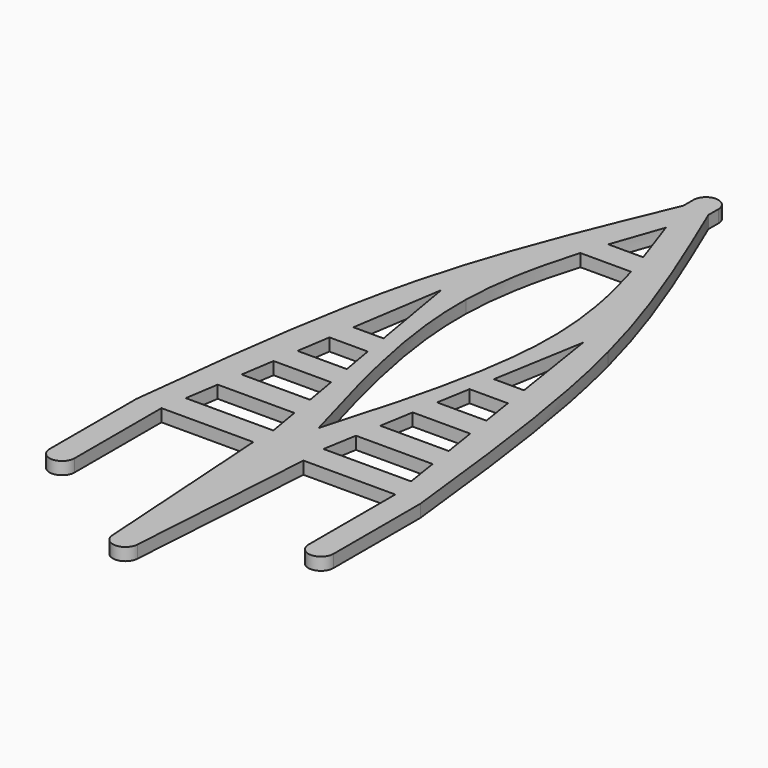
from build123d import *

# Parameters (mm, degrees)
F0_W     = 1.5
F0_H     = 1.5
F0_W_2   = 3
F0_H_2   = 13
F1_DEPTH = 1.5


with BuildPart() as f1:
    # F0 (on Top) → F1 (new body)
    with BuildSketch(Plane.XY):
        with BuildLine():
            ThreePointArc((1.5, 0), (0, 1.5), (-1.5, 0))
            Line((-1.5, 0), (0, 0))
            Line((0, 0), (1.5, 0))
        make_face()
        with Locations((-0.75, -0.75)):
            Rectangle(F0_W, F0_H)
        with Locations((0.75, -0.75)):
            Rectangle(F0_W, F0_H)
        with BuildLine():
            Line((-11.5, -29), (-1.5, -1.5))
            add(Edge.make_bspline(
                [(-11.5, -29), (-8.9604389689, -19.1496475307), (-5.2302194845, -10.3248237653), (-1.5, -1.5)],
                knots=[0.5238897737, 0.5238897737, 0.5238897737, 0.5238897737, 1, 1, 1, 1], degree=3))
        make_face()
        with BuildLine():
            Line((0, -1.5), (-1.5, -1.5))
            Line((-1.5, -1.5), (-11.5, -29))
            Line((-11.5, -29), (-8.5, -29))
            Line((-8.5, -29), (-5.5, -29))
            add(Edge.make_bspline(
                [(-5.5, -29), (-5.3848916098, -24.1330760329), (-4.3881653739, -19.5163140054), (-3.0374413678, -15)],
                knots=[0.5276799434, 0.5276799434, 0.5276799434, 0.5276799434, 0.8103483866, 0.8103483866, 0.8103483866, 0.8103483866], degree=3))
            add(Edge.make_bspline(
                [(-3.0374413678, -15), (-2.7370430221, -13.9955807036), (-2.4191356353, -12.9961296547), (-2.0895230291, -12)],
                knots=[0.8103483866, 0.8103483866, 0.8103483866, 0.8103483866, 0.8732132889, 0.8732132889, 0.8732132889, 0.8732132889], degree=3))
            add(Edge.make_bspline(
                [(-2.0895230291, -12), (-1.4247562559, -9.9909934152), (-0.7123781279, -7.9954967076), (0, -6)],
                knots=[0.8732132889, 0.8732132889, 0.8732132889, 0.8732132889, 1, 1, 1, 1], degree=3))
            Line((0, -6), (0, -1.5))
        make_face()
        with BuildLine():
            Line((-2.152173913, -15), (-1.4347826087, -12))
            Line((-1.4347826087, -12), (-2.0895230291, -12))
            add(Edge.make_bspline(
                [(-3.0374413678, -15), (-2.7370430221, -13.9955807036), (-2.4191356353, -12.9961296547), (-2.0895230291, -12)],
                knots=[0.8103483866, 0.8103483866, 0.8103483866, 0.8103483866, 0.8732132889, 0.8732132889, 0.8732132889, 0.8732132889], degree=3))
            Line((-3.0374413678, -15), (-2.152173913, -15))
        make_face()
        Polygon((0, -15), (0, -12), (-1.4347826087, -12), (-2.152173913, -15), align=None)
        Polygon((1.4347826087, -12), (0, -12), (0, -15), (2.152173913, -15), align=None)
        with BuildLine():
            Line((2.0895230291, -12), (1.4347826087, -12))
            Line((1.4347826087, -12), (2.152173913, -15))
            Line((2.152173913, -15), (3.0374413678, -15))
            add(Edge.make_bspline(
                [(3.0374413678, -15), (2.7370430221, -13.9955807036), (2.4191356353, -12.9961296547), (2.0895230291, -12)],
                knots=[0.8103483866, 0.8103483866, 0.8103483866, 0.8103483866, 0.8732132889, 0.8732132889, 0.8732132889, 0.8732132889], degree=3))
        make_face()
        with BuildLine():
            add(Edge.make_bspline(
                [(11.5, -29), (8.9604389689, -19.1496475307), (5.2302194845, -10.3248237653), (1.5, -1.5)],
                knots=[0.5238897737, 0.5238897737, 0.5238897737, 0.5238897737, 1, 1, 1, 1], degree=3))
            Line((1.5, -1.5), (11.5, -29))
        make_face()
        with BuildLine():
            Line((1.5, -1.5), (0, -1.5))
            Line((0, -1.5), (0, -6))
            add(Edge.make_bspline(
                [(2.0895230291, -12), (1.4247562559, -9.9909934152), (0.7123781279, -7.9954967076), (0, -6)],
                knots=[0.8732132889, 0.8732132889, 0.8732132889, 0.8732132889, 1, 1, 1, 1], degree=3))
            add(Edge.make_bspline(
                [(3.0374413678, -15), (2.7370430221, -13.9955807036), (2.4191356353, -12.9961296547), (2.0895230291, -12)],
                knots=[0.8103483866, 0.8103483866, 0.8103483866, 0.8103483866, 0.8732132889, 0.8732132889, 0.8732132889, 0.8732132889], degree=3))
            add(Edge.make_bspline(
                [(5.5, -29), (5.3848916098, -24.1330760329), (4.3881653739, -19.5163140054), (3.0374413678, -15)],
                knots=[0.5276799434, 0.5276799434, 0.5276799434, 0.5276799434, 0.8103483866, 0.8103483866, 0.8103483866, 0.8103483866], degree=3))
            Line((5.5, -29), (8.5, -29))
            Line((8.5, -29), (11.5, -29))
            Line((11.5, -29), (1.5, -1.5))
        make_face()
        with BuildLine():
            Line((-8.5, -29), (-11.5, -29))
            Line((-11.5, -29), (-17, -64))
            Line((-17, -64), (-14, -64))
            Line((-14, -64), (-3, -64))
            Line((-3, -64), (0, -64))
            Line((0, -64), (0, -58))
            add(Edge.make_bspline(
                [(0, -58), (-2.8574410503, -48.0427394279), (-5.7148821006, -38.0854788558), (-5.5, -29)],
                knots=[0, 0, 0, 0, 0.5276799434, 0.5276799434, 0.5276799434, 0.5276799434], degree=3))
            Line((-5.5, -29), (-8.5, -29))
        make_face()
        Polygon((-10.2159162976, -40), (-8.5, -29), (-6.609375, -40), (-6.09375, -43), (-5.40625, -47), (-4.890625, -50), (-4.203125, -54), (-3.6875, -57), (-3, -61), (-8.5, -61), (-13.491756502, -61), (-12.8677869393, -57), (-12.3998097672, -54), (-11.7758402045, -50), (-11.3078630324, -47), (-10.6838934696, -43), align=None, mode=Mode.SUBTRACT)
        with BuildLine():
            Line((-17, -64), (-11.5, -29))
            add(Edge.make_bspline(
                [(-17, -64), (-15.6472080207, -51.9194371815), (-14.2944160413, -39.838874363), (-11.5, -29)],
                knots=[0, 0, 0, 0, 0.5238897737, 0.5238897737, 0.5238897737, 0.5238897737], degree=3))
        make_face()
        with BuildLine():
            Line((17, -64), (11.5, -29))
            Line((11.5, -29), (8.5, -29))
            Line((8.5, -29), (5.5, -29))
            add(Edge.make_bspline(
                [(0, -58), (2.8574410503, -48.0427394279), (5.7148821006, -38.0854788558), (5.5, -29)],
                knots=[0, 0, 0, 0, 0.5276799434, 0.5276799434, 0.5276799434, 0.5276799434], degree=3))
            Line((0, -58), (0, -64))
            Line((0, -64), (3, -64))
            Line((3, -64), (14, -64))
            Line((14, -64), (17, -64))
        make_face()
        Polygon((6.609375, -40), (8.5, -29), (10.2159162976, -40), (10.6838934696, -43), (11.3078630324, -47), (11.7758402045, -50), (12.3998097672, -54), (12.8677869393, -57), (13.491756502, -61), (3, -61), (3.6875, -57), (4.203125, -54), (4.890625, -50), (5.40625, -47), (6.09375, -43), align=None, mode=Mode.SUBTRACT)
        with BuildLine():
            add(Edge.make_bspline(
                [(17, -64), (15.6472080207, -51.9194371815), (14.2944160413, -39.838874363), (11.5, -29)],
                knots=[0, 0, 0, 0, 0.5238897737, 0.5238897737, 0.5238897737, 0.5238897737], degree=3))
            Line((11.5, -29), (17, -64))
        make_face()
        Polygon((10.6838934696, -43), (10.2159162976, -40), (6.609375, -40), (6.09375, -43), align=None)
        Polygon((11.7758402045, -50), (11.3078630324, -47), (5.40625, -47), (4.890625, -50), align=None)
        Polygon((12.8677869393, -57), (12.3998097672, -54), (4.203125, -54), (3.6875, -57), align=None)
        Polygon((-8.5, -54), (-12.3998097672, -54), (-12.8677869393, -57), (-8.5, -57), align=None)
        Polygon((-3.6875, -57), (-4.203125, -54), (-8.5, -54), (-8.5, -57), align=None)
        Polygon((-4.890625, -50), (-5.40625, -47), (-8.5, -47), (-8.5, -50), align=None)
        Polygon((-8.5, -47), (-11.3078630324, -47), (-11.7758402045, -50), (-8.5, -50), align=None)
        Polygon((-8.5, -40), (-10.2159162976, -40), (-10.6838934696, -43), (-8.5, -43), align=None)
        Polygon((-6.09375, -43), (-6.609375, -40), (-8.5, -40), (-8.5, -43), align=None)
        with Locations((-15.5, -70.5)):
            Rectangle(F0_W_2, F0_H_2)
        Polygon((0, -64), (-3, -64), (-1.5, -87), (0, -87), align=None)
        with Locations((15.5, -70.5)):
            Rectangle(F0_W_2, F0_H_2)
        Polygon((1.5, -87), (3, -64), (0, -64), (0, -87), align=None)
        with BuildLine():
            ThreePointArc((14, -77), (15.5, -78.5), (17, -77))
            Line((17, -77), (14, -77))
        make_face()
        with BuildLine():
            Line((-14, -77), (-17, -77))
            ThreePointArc((-17, -77), (-15.5, -78.5), (-14, -77))
        make_face()
        with BuildLine():
            Line((0, -87), (-1.5, -87))
            ThreePointArc((-1.5, -87), (0, -88.4053605093), (1.5, -87))
            Line((1.5, -87), (0, -87))
        make_face()
    extrude(amount=F1_DEPTH)


solid = f1.part
